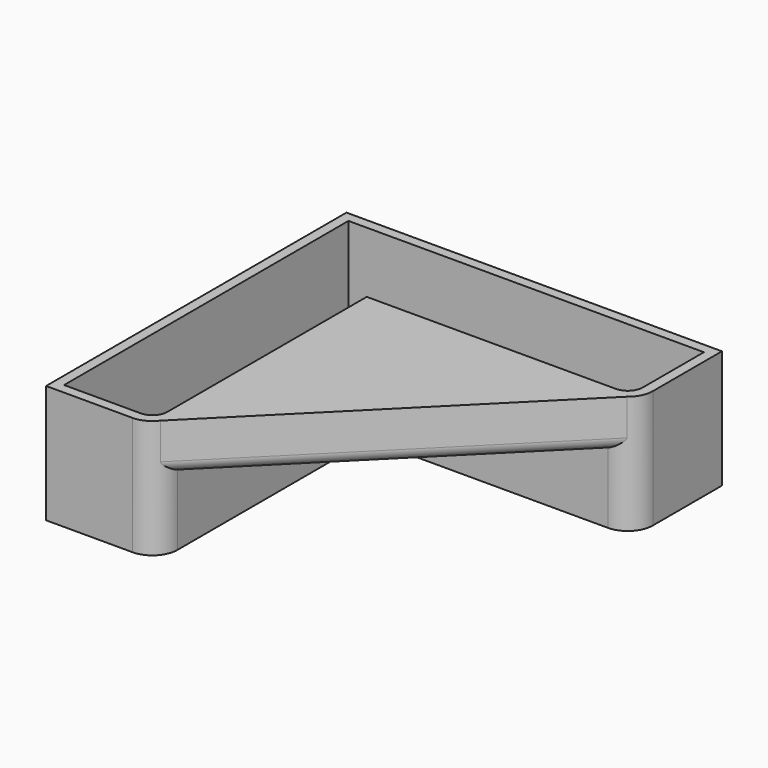
from build123d import *

# Parameters (mm, degrees)
PAD081_DEPTH            = 18.9
PAD082_DEPTH            = 7.8
FILLET022_R             = 2
BODY069_PLACEMENT_ANGLE = 180


with BuildPart() as part:
    # Sketch131 → Pad081 (new body)
    with BuildSketch(Plane.XY):
        with BuildLine():
            Line((-30, 30), (-30, -30))
            Line((-30, -30), (30, -30))
            Line((30, -30), (30, -16.2))
            ThreePointArc((30, -16.2), (28.828427, -13.371573), (26, -12.2))
            Line((26, -12.2), (-12.2, -12.2))
            Line((-12.2, -12.2), (-12.2, 26))
            ThreePointArc((-12.2, 26), (-13.371573, 28.828427), (-16.2, 30))
            Line((-16.2, 30), (-30, 30))
        make_face()
        with BuildLine():
            Line((-28.4, 28.4), (-16.2, 28.4))
            ThreePointArc((-13.8, 26), (-14.502944, 27.697056), (-16.2, 28.4))
            Line((-13.8, 26), (-13.8, -13.8))
            Line((-13.8, -13.8), (26, -13.8))
            ThreePointArc((28.4, -16.2), (27.697056, -14.502944), (26, -13.8))
            Line((28.4, -16.2), (28.4, -28.4))
            Line((28.4, -28.4), (-28.4, -28.4))
            Line((-28.4, -28.4), (-28.4, 28.4))
        make_face(mode=Mode.SUBTRACT)
    extrude(amount=PAD081_DEPTH)

    # Sketch132 → Pad082 (join)
    with BuildSketch(Plane.XY):
        Polygon((-13.8, 29.2), (-13.8, -13.8), (29.2, -13.8), align=None)
    extrude(amount=PAD082_DEPTH)

    # Fillet022
    fillet022_edges = [part.edges().sort_by_distance(p)[0] for p in [
        (7.7, 7.7, 7.8),
    ]]
    fillet(fillet022_edges, radius=FILLET022_R)


with BuildPart() as part_1:
    # Body069 placement: moved
    add(part.part.moved(Location((-115.5, 115.5, 78.1))).rotate(Axis((-115.5, 115.5, 78.1), (1, 0, 0)), BODY069_PLACEMENT_ANGLE))


solid = part_1.part
